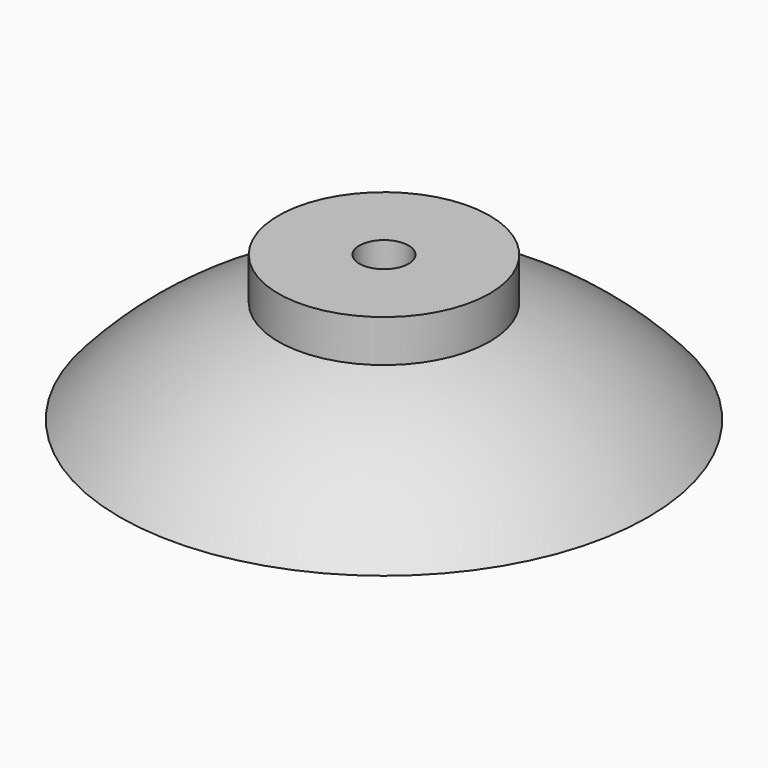
from build123d import *

# Parameters (mm, degrees)
F3_R     = 1.778
F4_DEPTH = 5.08


with BuildPart() as f2:
    # F1 (on Front) → F2 (revolve)
    with BuildSketch(Plane.XZ):
        with BuildLine():
            ThreePointArc((0, 4.423841), (8.546205, 3.298712), (16.51, 0))
            Line((16.51, 0), (19.05, 0))
            ThreePointArc((19.05, 0), (13.84275, 4.495917), (7.62, 7.429535))
            Line((7.62, 7.429535), (7.62, 10.477535))
            Line((7.62, 10.477535), (0, 10.477535))
            Line((0, 10.477535), (0, 8.599479))
            Line((0, 8.599479), (0, 6.51166))
            Line((0, 6.51166), (0, 4.423841))
        make_face()
    revolve(axis=Axis((0, 0, 2.668381), (0, 0, 1)))

    # F3 (on face) → F4 (cut)
    with BuildSketch(Plane.XY.offset(10.477535)):
        Circle(F3_R)
    extrude(amount=-F4_DEPTH, mode=Mode.SUBTRACT)


solid = f2.part
